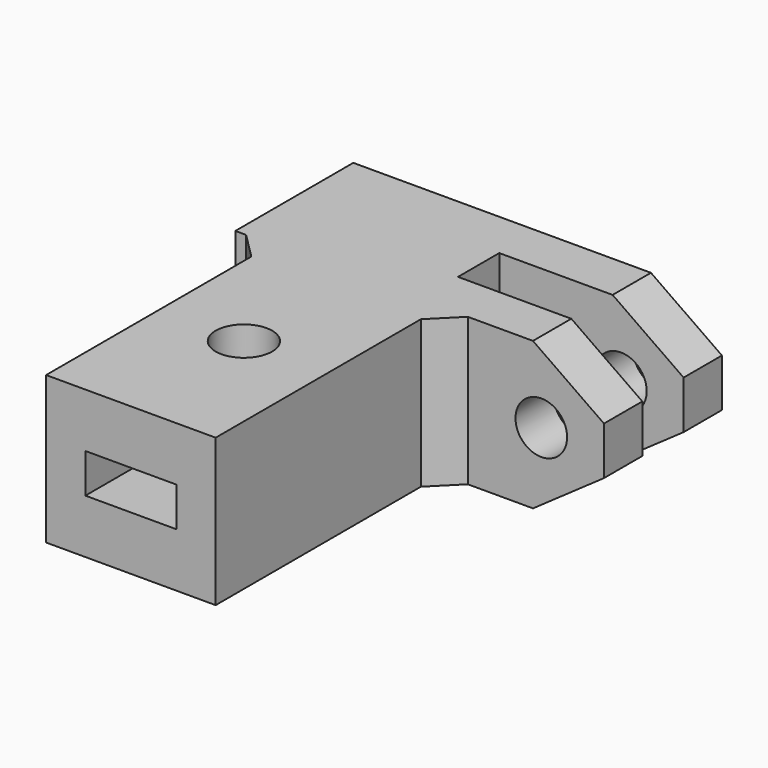
from build123d import *

# Parameters (mm, degrees)
CUBE022_W                = 7.4
CUBE022_H                = 50
CUBE022_DEPTH            = 3.2
CUBE023_W                = 15
CUBE023_H                = 4.2
CUBE023_DEPTH            = 12
CYLINDER014_R            = 2.1
CYLINDER014_DEPTH        = 13
PRISM016_DEPTH           = 13
PRISM016_ROLL_ANGLE      = 90
PRISM016_PITCH_ANGLE     = 65.000022
PRISM017_DEPTH           = 13
PRISM017_ROLL_ANGLE      = -90
PRISM017_PITCH_ANGLE     = 4.999997
PRISM017_PLACEMENT_ANGLE = 180
CYLINDER013_R            = 2.3
CYLINDER013_DEPTH        = 41
PRISM014_DEPTH           = 12
PRISM014_PLACEMENT_ANGLE = 15
PRISM015_DEPTH           = 12
PRISM015_PLACEMENT_ANGLE = 75
CUBE021_W                = 30
CUBE021_H                = 12
CUBE021_DEPTH            = 12
CUBE020_W                = 13.8
CUBE020_H                = 23
CUBE020_DEPTH            = 12


with BuildPart() as cube022:
    # cube022 → cube022 (new body)
    with BuildSketch(Plane(origin=(-3.7, 15, 64.4), x_dir=(1, 0, 0), z_dir=(0, 0, 1))):
        with Locations((3.7, 25)):
            Rectangle(CUBE022_W, CUBE022_H)
    extrude(amount=CUBE022_DEPTH)


with BuildPart() as cube023:
    # cube023 → cube023 (new body)
    with BuildSketch(Plane(origin=(5.1, 55.4, 60), x_dir=(1, 0, 0), z_dir=(0, 0, 1))):
        with Locations((7.5, 2.1)):
            Rectangle(CUBE023_W, CUBE023_H)
    extrude(amount=CUBE023_DEPTH)


with BuildPart() as cylinder014:
    # cylinder014 → cylinder014 (new body)
    with BuildSketch(Plane(origin=(15, 64, 66), x_dir=(1, 0, 0), z_dir=(0, -1, 0))):
        Circle(CYLINDER014_R)
    extrude(amount=CYLINDER014_DEPTH)


with BuildPart() as prism016:
    # prism016 → prism016 (new body)
    with BuildSketch(Plane.XY):
        Polygon((5.25, 0), (-2.625, 4.546633), (-2.625, -4.546633), align=None)
    extrude(amount=PRISM016_DEPTH)


with BuildPart() as prism016_1:
    # prism016 roll: moved
    add(prism016.part.rotate(Axis((0, 0, 0), (1, 0, 0)), PRISM016_ROLL_ANGLE))


with BuildPart() as prism016_2:
    # prism016 pitch: moved
    add(prism016_1.part.rotate(Axis((0, 0, 0), (0, 1, 0)), PRISM016_PITCH_ANGLE))


with BuildPart() as prism016_3:
    # prism016 placement: moved
    add(prism016_2.part.moved(Location((18.9, 64, 72))))


with BuildPart() as prism017:
    # prism017 → prism017 (new body)
    with BuildSketch(Plane.XY):
        Polygon((5.25, 0), (-2.625, 4.546633), (-2.625, -4.546633), align=None)
    extrude(amount=PRISM017_DEPTH)


with BuildPart() as prism017_1:
    # prism017 roll: moved
    add(prism017.part.rotate(Axis((0, 0, 0), (1, 0, 0)), PRISM017_ROLL_ANGLE))


with BuildPart() as prism017_2:
    # prism017 pitch: moved
    add(prism017_1.part.rotate(Axis((0, 0, 0), (0, 1, 0)), PRISM017_PITCH_ANGLE))


with BuildPart() as prism017_3:
    # prism017 placement: moved
    add(prism017_2.part.moved(Location((18.9, 64.000001, 60))).rotate(Axis((18.9, 64.000001, 60), (0, 0, 1)), PRISM017_PLACEMENT_ANGLE))


with BuildPart() as group009:
    # cylinder013 → cylinder013 (new body)
    with BuildSketch(Plane(origin=(0, 40, 51.5), x_dir=(1, 0, 0), z_dir=(0, 0, 1))):
        Circle(CYLINDER013_R)
    extrude(amount=CYLINDER013_DEPTH)

    # Group009: union cube022, cube023, cylinder014, prism016, prism017
    add(cube022.part)
    add(cube023.part)
    add(cylinder014.part)
    add(prism016_3.part)
    add(prism017_3.part)


with BuildPart() as prism014:
    # prism014 → prism014 (new body)
    with BuildSketch(Plane.XY):
        Polygon((3, 0), (-1.5, 2.598076), (-1.5, -2.598076), align=None)
    extrude(amount=PRISM014_DEPTH)


with BuildPart() as prism014_1:
    # prism014 placement: moved
    add(prism014.part.moved(Location((7, 51.6, 60))).rotate(Axis((7, 51.6, 60), (0, 0, 1)), PRISM014_PLACEMENT_ANGLE))


with BuildPart() as prism015:
    # prism015 → prism015 (new body)
    with BuildSketch(Plane.XY):
        Polygon((3, 0), (-1.5, 2.598076), (-1.5, -2.598076), align=None)
    extrude(amount=PRISM015_DEPTH)


with BuildPart() as prism015_1:
    # prism015 placement: moved
    add(prism015.part.moved(Location((-7, 51.6, 60))).rotate(Axis((-7, 51.6, 60), (0, 0, -1)), PRISM015_PLACEMENT_ANGLE))


with BuildPart() as cube021:
    # cube021 → cube021 (new body)
    with BuildSketch(Plane(origin=(-9.9, 51.5, 60), x_dir=(1, 0, 0), z_dir=(0, 0, 1))):
        with Locations((15, 6)):
            Rectangle(CUBE021_W, CUBE021_H)
    extrude(amount=CUBE021_DEPTH)


with BuildPart() as obj1:
    # cube020 → cube020 (new body)
    with BuildSketch(Plane(origin=(-6.9, 28.5, 60), x_dir=(1, 0, 0), z_dir=(0, 0, 1))):
        with Locations((6.9, 11.5)):
            Rectangle(CUBE020_W, CUBE020_H)
    extrude(amount=CUBE020_DEPTH)

    # Group008: union prism014, prism015, cube021
    add(prism014_1.part)
    add(prism015_1.part)
    add(cube021.part)

    # difference005: cut Group009
    add(group009.part, mode=Mode.SUBTRACT)


solid = obj1.part
